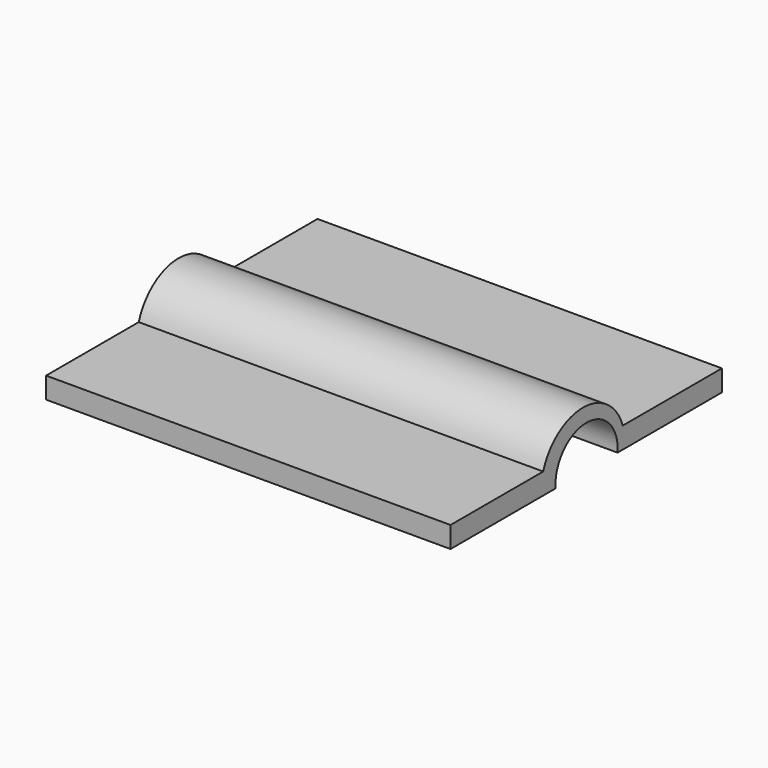
from build123d import *

# Parameters (mm, degrees)
F1_DEPTH = 75.438


with BuildPart() as f1:
    # F0 (on Right) → F1 (new body, symmetric)
    with BuildSketch(Plane.YZ):
        with BuildLine():
            Line((-67.9932907224, 18.8616737723), (-67.9932907224, 10.9519390389))
            Line((-67.9932907224, 10.9519390389), (-19.0137848258, 10.9519390389))
            ThreePointArc((-19.0137848258, 10.9519390389), (-4.5633087866, 26.6910651898), (9.8871672526, 10.9519390389))
            Line((9.8871672526, 10.9519390389), (58.5624538362, 10.9519390389))
            Line((58.5624538362, 10.9519390389), (58.5624538362, 18.8616737723))
            Line((58.5624538362, 18.8616737723), (12.3209310696, 18.8616737723))
            ThreePointArc((12.3209310696, 18.8616737723), (-6.2365210615, 32.310082323), (-24.7939731926, 18.8616737723))
            Line((-24.7939731926, 18.8616737723), (-67.9932907224, 18.8616737723))
        make_face()
    extrude(amount=F1_DEPTH, both=True)


solid = f1.part
